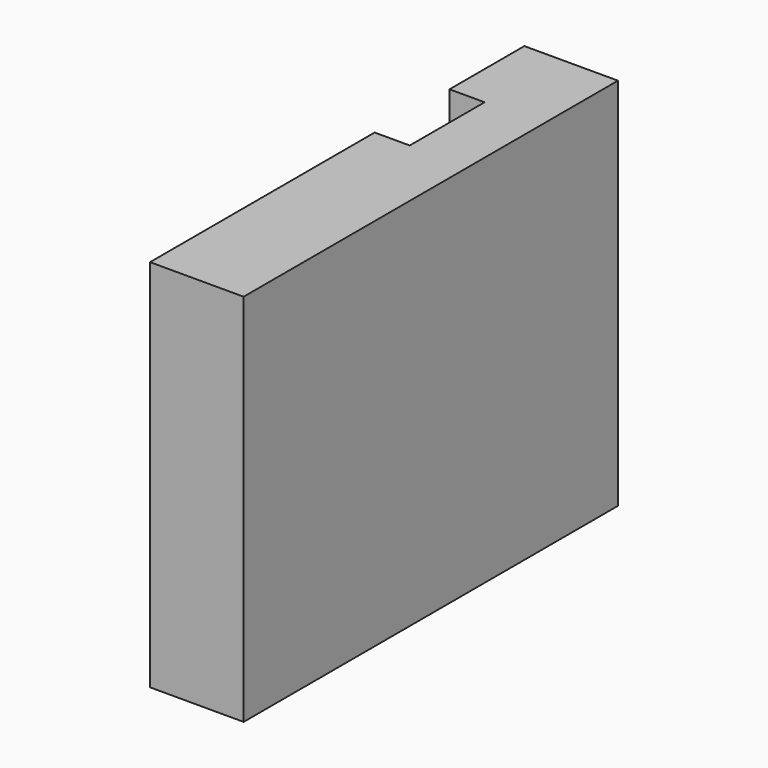
from build123d import *

# Parameters (mm, degrees)
F1_DEPTH = 25.4
F3_DEPTH = 76.2


with BuildPart() as f1:
    # F0 (on Top) → F1 (new body)
    with BuildSketch(Plane.XY):
        Polygon((-35.135657, 0), (-9.735657, 0), (-9.735657, 127), (-35.135657, 127), (-35.135657, 101.6), (-25.610657, 101.6), (-25.610657, 76.2), (-35.135657, 76.2), align=None)
    extrude(amount=F1_DEPTH)

    # F2 (on face) → F3 (join)
    with BuildSketch(Plane.XY.offset(25.4)):
        Polygon((-35.135657, 76.2), (-35.135657, 0), (-9.735657, 0), (-9.735657, 127), (-35.135657, 127), (-35.135657, 101.6), (-25.610657, 101.6), (-25.610657, 76.2), align=None)
    extrude(amount=F3_DEPTH)


solid = f1.part
